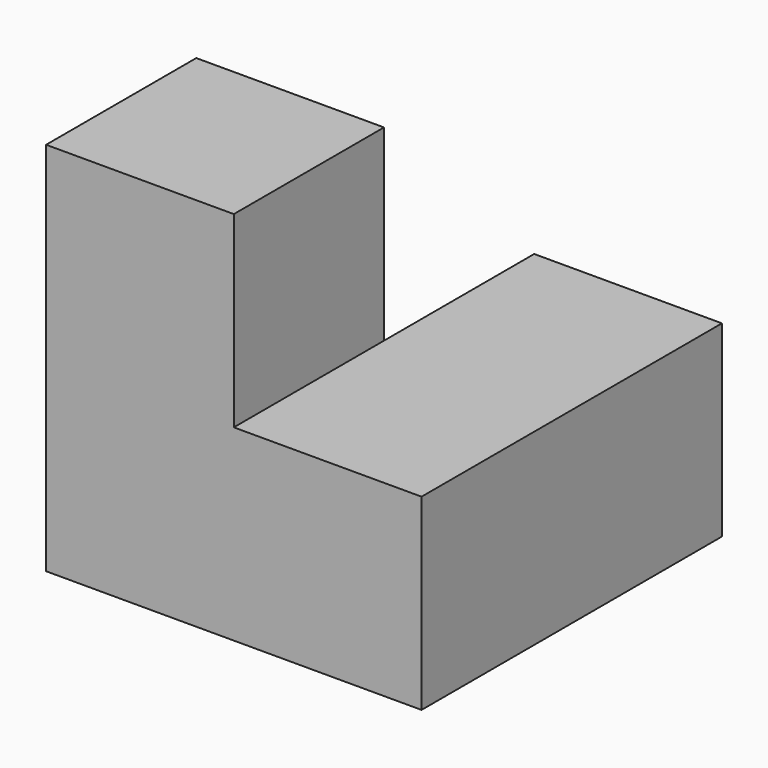
from build123d import *

# Parameters (mm, degrees)
F0_W     = 10
F0_H     = 10
F1_DEPTH = 20
F2_DEPTH = 10


with BuildPart() as f1:
    # F0 (on Top) → F1 (new body)
    with BuildSketch(Plane.XY):
        with Locations((-15, 5)):
            Rectangle(F0_W, F0_H)
    extrude(amount=F1_DEPTH)

    # F0 (on Top) → F2 (join)
    with BuildSketch(Plane.XY):
        with Locations((-5, 15)):
            Rectangle(F0_W, F0_H)
        with Locations((-5, 5)):
            Rectangle(F0_W, F0_H)
    extrude(amount=F2_DEPTH)


solid = f1.part
